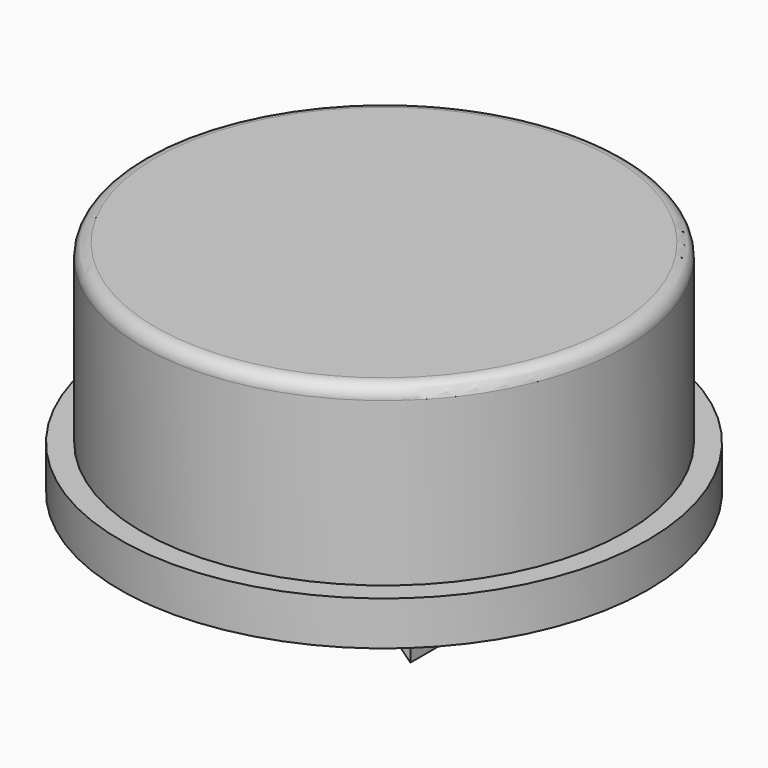
from build123d import *

# Parameters (mm, degrees)
PAD002_DEPTH      = 4
BOX013_W          = 2
BOX013_H          = 0.4
BOX013_DEPTH      = 5.7
PAD001_DEPTH      = 4
BOX022_W          = 2
BOX022_H          = 0.4
BOX022_DEPTH      = 5.7
BOX014_W          = 3
BOX014_H          = 0.4
BOX014_DEPTH      = 4.7
ARRAY001_COUNT    = 4
CYLINDER001_R     = 5
CYLINDER001_DEPTH = 5
CYLINDER002_R     = 6
CYLINDER002_DEPTH = 1
CYLINDER010_R     = 5.5
CYLINDER010_DEPTH = 4
FILLET006_R       = 0.3


with BuildPart() as pad002:
    # Sketch011 → Pad002 (new body)
    with BuildSketch(Plane(origin=(0.3, -2, 0), x_dir=(-1, 0, 0), z_dir=(0, 1, 0))):
        Polygon((-1.9, 4.62141), (-1.9, -1.87859), (-1.1, -1.07859), (-1.5, -1.07859), (-1.5, 4.62141), align=None)
    extrude(amount=PAD002_DEPTH)


with BuildPart() as cubo014:
    # Box013 → Box013 (new body)
    with BuildSketch(Plane(origin=(-1, -2.2, -1.1), x_dir=(1, 0, 0), z_dir=(0, 0, 1))):
        with Locations((1, 0.2)):
            Rectangle(BOX013_W, BOX013_H)
    extrude(amount=BOX013_DEPTH)


with BuildPart() as pad001:
    # Sketch007 → Pad001 (new body)
    with BuildSketch(Plane.XZ.offset(-2)):
        Polygon((-2.2, 4.62141), (-2.2, -1.87859), (-1.4, -1.07859), (-1.8, -1.07859), (-1.8, 4.62141), align=None)
    extrude(amount=PAD001_DEPTH)


with BuildPart() as cubo016:
    # Box022 → Box022 (new body)
    with BuildSketch(Plane(origin=(-1, 1.8, -1.1), x_dir=(1, 0, 0), z_dir=(0, 0, 1))):
        with Locations((1, 0.2)):
            Rectangle(BOX022_W, BOX022_H)
    extrude(amount=BOX022_DEPTH)


with BuildPart() as array001:
    # Box014 → Box014 (new body)
    with BuildSketch(Plane(origin=(2.1, -0.2, 0), x_dir=(1, 0, 0), z_dir=(0, 0, 1))):
        with Locations((1.5, 0.2)):
            Rectangle(BOX014_W, BOX014_H)
    extrude(amount=BOX014_DEPTH)

    # Array001: Array001 ×4 about axis
    array001_axis = Axis((0, 0, 0), (0, 0, 1))


with BuildPart() as array001_1:
    add(array001.part)
    for i in range(1, ARRAY001_COUNT):
        add(array001.part.rotate(array001_axis, i * 360 / ARRAY001_COUNT))


with BuildPart() as cilindro018:
    # Cylinder001 → Cylinder001 (new body)
    with BuildSketch(Plane.XY.offset(-0.5)):
        Circle(CYLINDER001_R)
    extrude(amount=CYLINDER001_DEPTH)


with BuildPart() as cilindro017:
    # Cylinder002 → Cylinder002 (new body)
    with BuildSketch(Plane.XY):
        Circle(CYLINDER002_R)
    extrude(amount=CYLINDER002_DEPTH)


with BuildPart() as obj1:
    # Cylinder010 → Cylinder010 (new body)
    with BuildSketch(Plane.XY.offset(1)):
        Circle(CYLINDER010_R)
    extrude(amount=CYLINDER010_DEPTH)

    # Fusion007: union Cilindro017
    add(cilindro017.part)

    # Cut007: cut Cilindro018
    add(cilindro018.part, mode=Mode.SUBTRACT)

    # Fillet006
    fillet006_edges = [obj1.edges().sort_by_distance(p)[0] for p in [
        (-5.5, 0, 5),
    ]]
    fillet(fillet006_edges, radius=FILLET006_R)

    # Fusion004: union Pad002, Cubo014, Pad001, Cubo016, Array001
    add(pad002.part)
    add(cubo014.part)
    add(pad001.part)
    add(cubo016.part)
    add(array001_1.part)


with BuildPart() as obj1_1:
    # Fusion004 placement: moved
    add(obj1.part.moved(Location((3.5, 2.3, 7.5))))


solid = obj1_1.part
